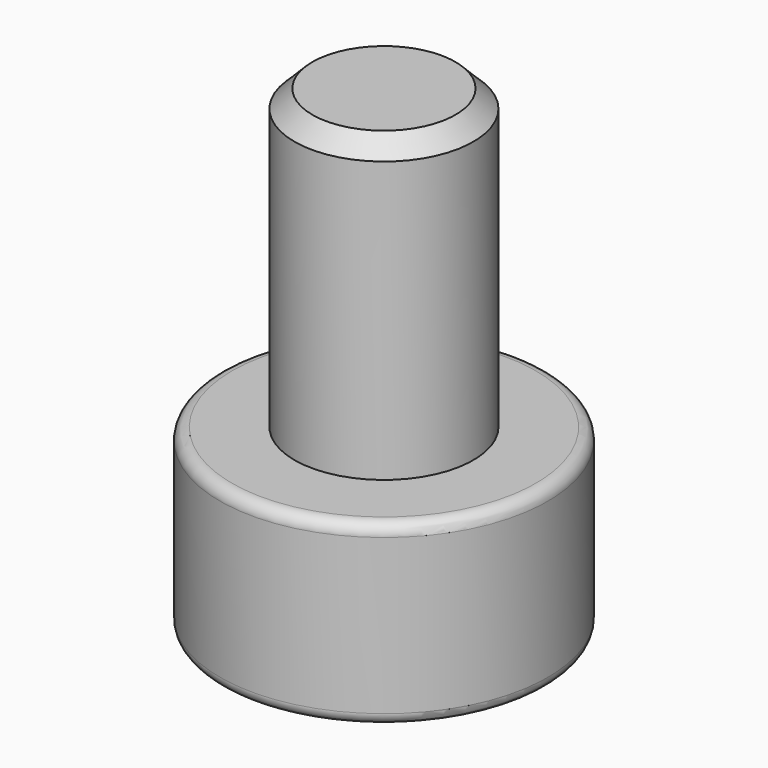
from build123d import *

# Parameters (mm, degrees)
F3_DEPTH = 2
F4_R     = 0.2
F5_SIZE  = 0.3


with BuildPart() as f1:
    # F0 (on Front) → F1 (revolve)
    with BuildSketch(Plane.XZ):
        Polygon((-2.75, 0), (0, 0), (0, 8), (-1.5, 8), (-1.5, 3), (-2.75, 3), align=None)
    revolve(axis=Axis((0, 0, 4), (0, 0, 1)))

    # F2 (on face) → F3 (cut)
    with BuildSketch(Plane(origin=(0, 0, 0), x_dir=(1, 0, 0), z_dir=(0, 0, -1))):
        Polygon((0.721688, 1.25), (-0.721688, 1.25), (-1.443376, 0), (-0.721688, -1.25), (0.721688, -1.25), (1.443376, 0), align=None)
    extrude(amount=-F3_DEPTH, mode=Mode.SUBTRACT)

    # F4
    f4_edges = [f1.edges().sort_by_distance(p)[0] for p in [
        (2.75, 0, 0),
        (2.75, 0, 3),
    ]]
    fillet(f4_edges, radius=F4_R)

    # F5
    f5_edges = [f1.edges().sort_by_distance(p)[0] for p in [
        (1.5, 0, 8),
    ]]
    chamfer(f5_edges, length=F5_SIZE)


solid = f1.part
